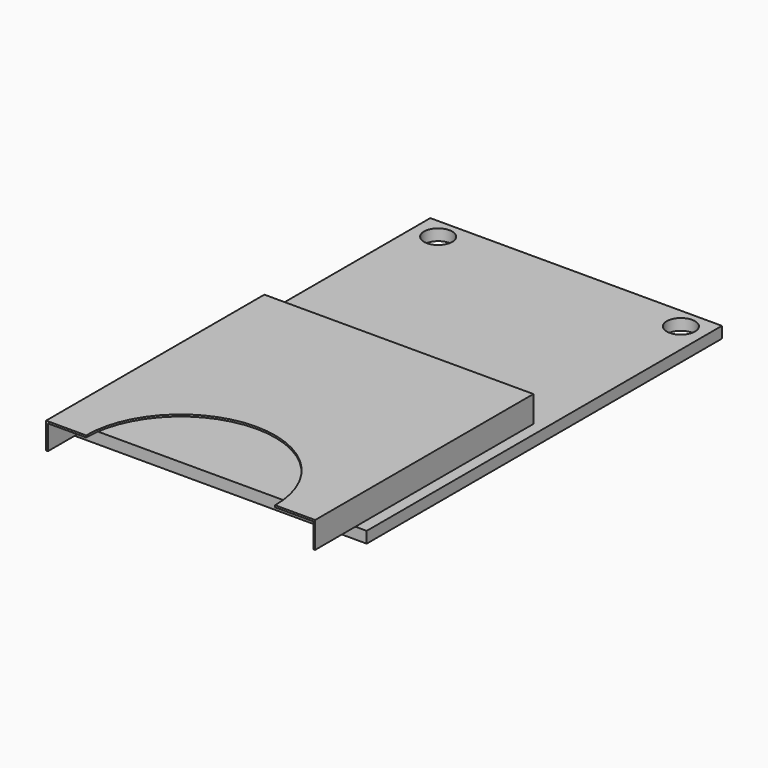
from build123d import *

# Parameters (mm, degrees)
F0_W     = 31
F0_H     = 47.2
F0_R     = 1.5
F1_DEPTH = 1.2
F2_W     = 28.6
F2_H     = 29
F3_DEPTH = 2.8
F4_W     = 28.2
F4_H     = 2.6
F5_DEPTH = 25
F7_DEPTH = 0.2


with BuildPart() as f1:
    # F0 (on Top) → F1 (new body)
    with BuildSketch(Plane.XY):
        Rectangle(F0_W, F0_H)
        with Locations((-12.9, 21.4)):
            Circle(F0_R, mode=Mode.SUBTRACT)
        with Locations((12.9, 21.4)):
            Circle(F0_R, mode=Mode.SUBTRACT)
    extrude(amount=F1_DEPTH)

    # F2 (on face) → F3 (join)
    with BuildSketch(Plane.XY.offset(1.2)):
        with Locations((0, -14.446534)):
            Rectangle(F2_W, F2_H)
    extrude(amount=F3_DEPTH)

    # F4 (on face) → F5 (cut)
    with BuildSketch(Plane.XZ.offset(28.946534)):
        with Locations((0, 2.5)):
            Rectangle(F4_W, F4_H)
    extrude(amount=-F5_DEPTH, mode=Mode.SUBTRACT)

    # F6 (on face) → F7 (cut, through all)
    with BuildSketch(Plane.XY.offset(4)):
        with BuildLine():
            Line((-10.05, -28.946534), (10.05, -28.946534))
            ThreePointArc((10.05, -28.946534), (0, -18.896534), (-10.05, -28.946534))
        make_face()
    extrude(amount=-F7_DEPTH, mode=Mode.SUBTRACT)


solid = f1.part
